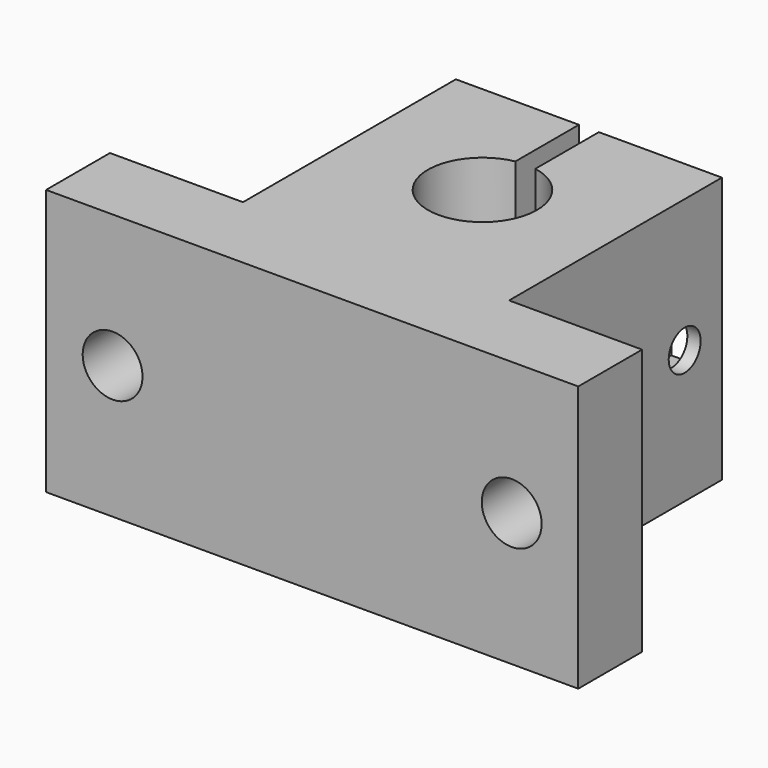
from build123d import *

# Parameters (mm, degrees)
F1_DEPTH = 20
F2_R     = 1.5
F3_DEPTH = 20
F4_W     = 2.8
F4_H     = 6
F5_DEPTH = 7.5
F6_R     = 2.25
F7_DEPTH = 6


with BuildPart() as f1:
    # F0 (on Top) → F1 (new body)
    with BuildSketch(Plane.XY):
        with BuildLine():
            Line((-38.333333, 14.652778), (-38.333333, -5.347222))
            Line((-38.333333, -5.347222), (-18.333333, -5.347222))
            Line((-18.333333, -5.347222), (-18.333333, 14.652778))
            Line((-18.333333, 14.652778), (-27.583333, 14.652778))
            Line((-27.583333, 14.652778), (-27.583333, 8.683597))
            ThreePointArc((-27.583333, 8.683597), (-25.18016, 7.273369), (-24.233333, 4.652778))
            ThreePointArc((-24.233333, 4.652778), (-30.953925, 1.499605), (-29.083333, 8.683597))
            Line((-29.083333, 8.683597), (-29.083333, 14.652778))
            Line((-29.083333, 14.652778), (-38.333333, 14.652778))
        make_face()
        Polygon((-48.333333, -5.347222), (-48.333333, -11.347222), (-8.333333, -11.347222), (-8.333333, -5.347222), (-18.333333, -5.347222), (-38.333333, -5.347222), align=None)
    extrude(amount=F1_DEPTH)

    # F2 (on face) → F3 (cut)
    with BuildSketch(Plane(origin=(-38.333333, 0, 0), x_dir=(0, -1, 0), z_dir=(-1, 0, 0))):
        with Locations((-11.152778, 10)):
            Circle(F2_R)
    extrude(amount=-F3_DEPTH, mode=Mode.SUBTRACT)

    # F4 (on face) → F5 (cut)
    with BuildSketch(Plane(origin=(0, 14.652778, 0), x_dir=(-1, 0, 0), z_dir=(0, 1, 0))):
        with Locations((20.733333, 10)):
            Rectangle(F4_W, F4_H)
    extrude(amount=-F5_DEPTH, mode=Mode.SUBTRACT)

    # F6 (on face) → F7 (cut)
    with BuildSketch(Plane(origin=(0, -5.347222, 0), x_dir=(-1, 0, 0), z_dir=(0, 1, 0))):
        with Locations((43.333333, 10)):
            Circle(F6_R)
        with Locations((13.333333, 10)):
            Circle(F6_R)
    extrude(amount=-F7_DEPTH, mode=Mode.SUBTRACT)


solid = f1.part
